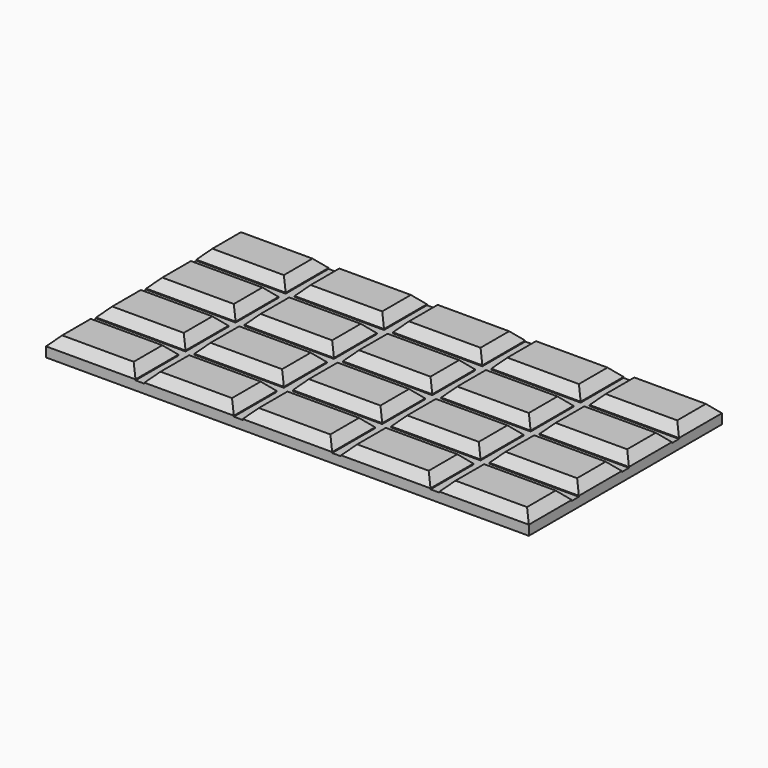
from build123d import *

# Parameters (mm, degrees)
BOX001_W      = 10
BOX001_H      = 6
BOX001_DEPTH  = 1.1
CHAMFER_SIZE  = 1
ARRAY_X_COUNT = 5
ARRAY_X_PITCH = 11
ARRAY_Y_COUNT = 4
ARRAY_Y_PITCH = 7
BOX_W         = 54
BOX_H         = 27
BOX_DEPTH     = 1


with BuildPart() as obj1:
    # Box001 → Box001 (new body)
    with BuildSketch(Plane.XY.offset(1)):
        with Locations((5, 3)):
            Rectangle(BOX001_W, BOX001_H)
    extrude(amount=BOX001_DEPTH)

    # Chamfer
    chamfer_edges = [obj1.edges().sort_by_distance(p)[0] for p in [
        (0, 3, 2.1),
        (10, 3, 2.1),
        (5, 0, 2.1),
        (5, 6, 2.1),
    ]]
    chamfer(chamfer_edges, length=CHAMFER_SIZE)

    # Array X: obj1 ×5


with BuildPart() as obj1_1:
    add(obj1.part)
    with Locations(*[(i * ARRAY_X_PITCH, 0, 0) for i in range(1, ARRAY_X_COUNT)]):
        add(obj1.part)

    # Array Y: obj1 ×4


with BuildPart() as obj1_2:
    add(obj1_1.part)
    with Locations(*[(0, i * ARRAY_Y_PITCH, 0) for i in range(1, ARRAY_Y_COUNT)]):
        add(obj1_1.part)


with BuildPart() as obj2:
    # Box → Box (new body)
    with BuildSketch(Plane.XY):
        with Locations((27, 13.5)):
            Rectangle(BOX_W, BOX_H)
    extrude(amount=BOX_DEPTH)

    # Fusion: union obj1
    add(obj1_2.part)


solid = obj2.part
